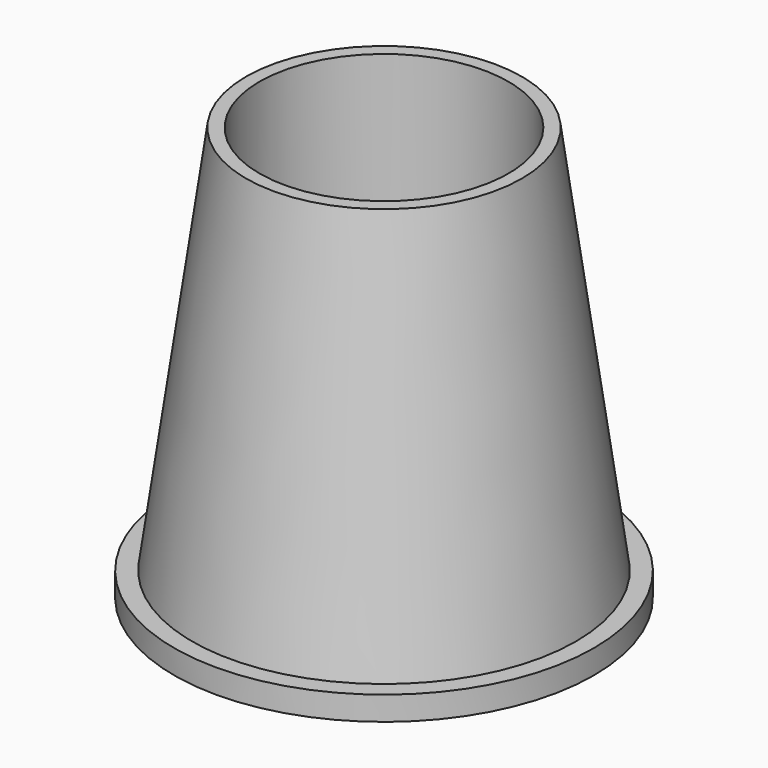
from build123d import *

# Parameters (mm, degrees)
F0_R     = 35
F1_DEPTH = 4
F4_R     = 32
F3_R     = 23


with BuildPart() as f1:
    # F0 (on Top) → F1 (new body)
    with BuildSketch(Plane.XY):
        Circle(F0_R)
    extrude(amount=F1_DEPTH)

    # F4 (on face) → F5 section 0
    with BuildSketch(Plane.XY.offset(4)):
        Circle(F4_R)
    # F3 (on offset) → F5 section 1
    with BuildSketch(Plane.XY.offset(69)):
        Circle(F3_R)
    loft()

    # F6 (on Front) → F7 (revolve, cut)
    with BuildSketch(Plane.XZ):
        with BuildLine():
            Line((0, 4), (0, 69))
            Line((0, 69), (-20.75, 69))
            Line((-20.75, 69), (-20.75, 24.75))
            ThreePointArc((-20.75, 24.75), (-14.672466, 10.077534), (0, 4))
        make_face()
    revolve(axis=Axis((0, 0, 36.5), (0, 0, -1)), mode=Mode.SUBTRACT)


solid = f1.part
